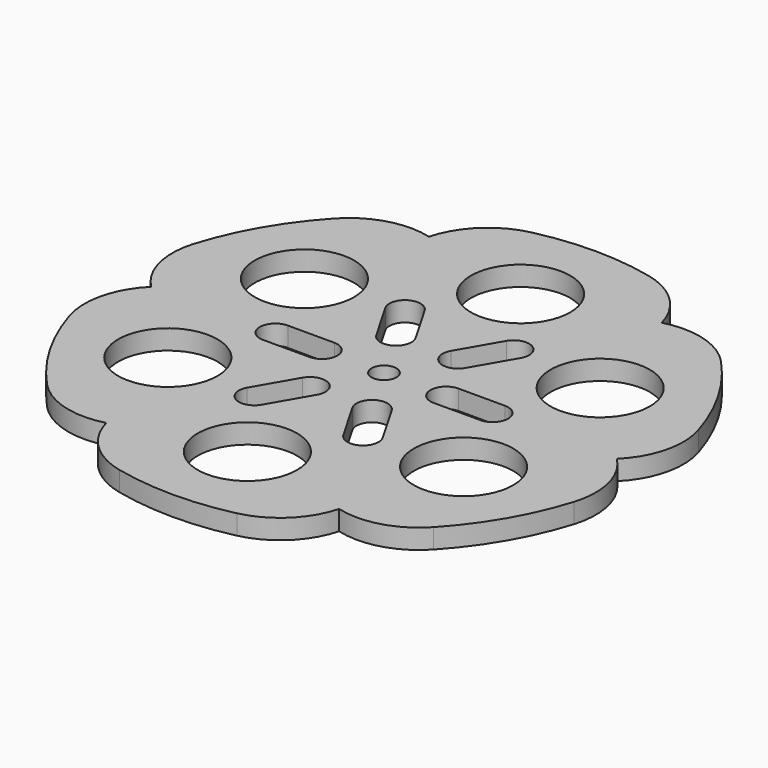
from build123d import *

# Parameters (mm, degrees)
SKETCH_R   = 4
SKETCH_R_2 = 16
PAD_DEPTH  = 6.35


with BuildPart() as part:
    # Sketch → Pad (new body)
    with BuildSketch(Plane.XY):
        with BuildLine():
            ThreePointArc((-81.240384, 25), (-81.600865, 11.63117), (-75, 0))
            ThreePointArc((-75, 0), (-81.600865, -11.63117), (-81.240384, -25))
            ThreePointArc((-81.240384, -25), (-73.612159, -42.5), (-62.270827, -57.856236))
            ThreePointArc((-62.270827, -57.856236), (-50.873322, -64.852837), (-37.5, -64.951905))
            ThreePointArc((-37.5, -64.951905), (-30.727544, -76.484008), (-18.969557, -82.856236))
            ThreePointArc((-18.969557, -82.856236), (0, -85), (18.969557, -82.856236))
            ThreePointArc((18.969557, -82.856236), (30.727544, -76.484008), (37.5, -64.951905))
            ThreePointArc((37.5, -64.951905), (50.873322, -64.852837), (62.270827, -57.856236))
            ThreePointArc((62.270827, -57.856236), (73.612159, -42.5), (81.240384, -25))
            ThreePointArc((81.240384, -25), (81.600865, -11.63117), (75, 0))
            ThreePointArc((75, 0), (81.600865, 11.63117), (81.240384, 25))
            ThreePointArc((81.240384, 25), (73.612159, 42.5), (62.270827, 57.856236))
            ThreePointArc((62.270827, 57.856236), (50.873322, 64.852837), (37.5, 64.951905))
            ThreePointArc((37.5, 64.951905), (30.727544, 76.484008), (18.969557, 82.856236))
            ThreePointArc((18.969557, 82.856236), (0, 85), (-18.969557, 82.856236))
            ThreePointArc((-18.969557, 82.856236), (-30.727544, 76.484008), (-37.5, 64.951905))
            ThreePointArc((-37.5, 64.951905), (-50.873322, 64.852837), (-62.270827, 57.856236))
            ThreePointArc((-62.270827, 57.856236), (-73.612159, 42.5), (-81.240384, 25))
        make_face()
        Circle(SKETCH_R, mode=Mode.SUBTRACT)
        with Locations((-47.631397, -27.5)):
            Circle(SKETCH_R_2, mode=Mode.SUBTRACT)
        with Locations((47.631397, -27.5)):
            Circle(SKETCH_R_2, mode=Mode.SUBTRACT)
        with Locations((0, 55)):
            Circle(SKETCH_R_2, mode=Mode.SUBTRACT)
        with Locations((-47.631397, 27.5)):
            Circle(SKETCH_R_2, mode=Mode.SUBTRACT)
        with Locations((47.631397, 27.5)):
            Circle(SKETCH_R_2, mode=Mode.SUBTRACT)
        with Locations((0, -55)):
            Circle(SKETCH_R_2, mode=Mode.SUBTRACT)
        with BuildLine():
            ThreePointArc((-13.169873, 32.810889), (-20, 34.641016), (-21.830127, 27.810889))
            Line((-21.830127, 27.810889), (-14.330127, 14.820508))
            ThreePointArc((-14.330127, 14.820508), (-7.5, 12.990381), (-5.669873, 19.820508))
            Line((-5.669873, 19.820508), (-13.169873, 32.810889))
        make_face(mode=Mode.SUBTRACT)
        with BuildLine():
            ThreePointArc((21.830127, 27.810889), (20, 34.641016), (13.169873, 32.810889))
            Line((13.169873, 32.810889), (5.669873, 19.820508))
            ThreePointArc((5.669873, 19.820508), (7.5, 12.990381), (14.330127, 14.820508))
            Line((14.330127, 14.820508), (21.830127, 27.810889))
        make_face(mode=Mode.SUBTRACT)
        with BuildLine():
            ThreePointArc((35, -5), (40, 0), (35, 5))
            Line((35, 5), (20, 5))
            ThreePointArc((20, 5), (15, 0), (20, -5))
            Line((20, -5), (35, -5))
        make_face(mode=Mode.SUBTRACT)
        with BuildLine():
            ThreePointArc((14.330127, -14.820508), (7.5, -12.990381), (5.669873, -19.820508))
            Line((5.669873, -19.820508), (13.169873, -32.810889))
            ThreePointArc((13.169873, -32.810889), (20, -34.641016), (21.830127, -27.810889))
            Line((21.830127, -27.810889), (14.330127, -14.820508))
        make_face(mode=Mode.SUBTRACT)
        with BuildLine():
            ThreePointArc((-5.669873, -19.820508), (-7.5, -12.990381), (-14.330127, -14.820508))
            Line((-14.330127, -14.820508), (-21.830127, -27.810889))
            ThreePointArc((-21.830127, -27.810889), (-20, -34.641016), (-13.169873, -32.810889))
            Line((-13.169873, -32.810889), (-5.669873, -19.820508))
        make_face(mode=Mode.SUBTRACT)
        with BuildLine():
            ThreePointArc((-35, 5), (-40, 0), (-35, -5))
            Line((-35, -5), (-20, -5))
            ThreePointArc((-20, -5), (-15, 0), (-20, 5))
            Line((-20, 5), (-35, 5))
        make_face(mode=Mode.SUBTRACT)
    extrude(amount=PAD_DEPTH)


solid = part.part
